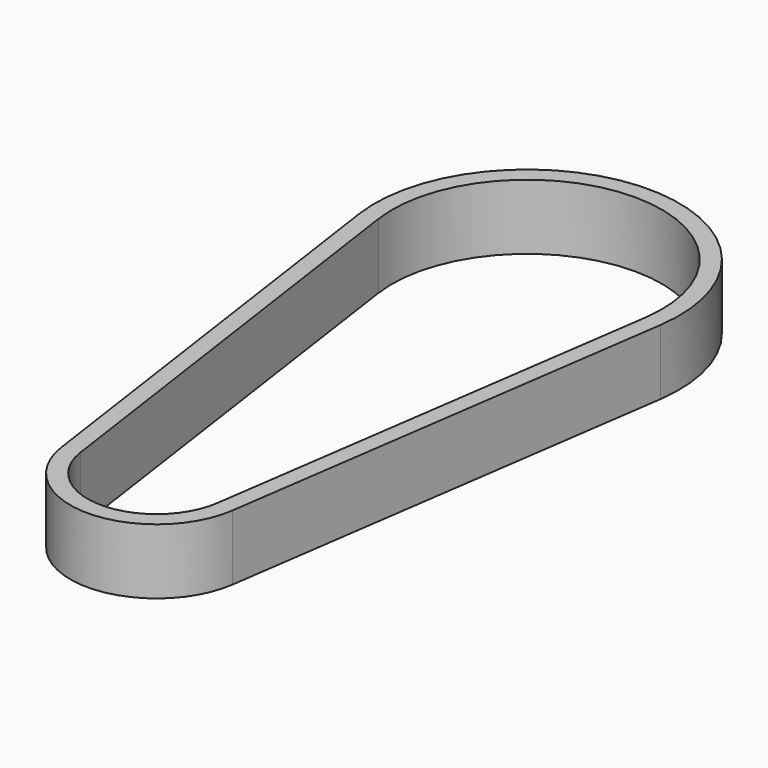
from build123d import *

# Parameters (mm, degrees)
F1_DEPTH = 6


with BuildPart() as f1:
    # F0 (on Top) → F1 (new body)
    with BuildSketch(Plane.XY):
        with BuildLine():
            ThreePointArc((12.266961, -1.759466), (0, 12.3925), (-12.266961, -1.759466))
            Line((-12.266961, -1.759466), (-6.285673, -43.460888))
            ThreePointArc((-6.285673, -43.460888), (0, -48.909326), (6.285673, -43.460888))
            Line((6.285673, -43.460888), (12.266961, -1.759466))
        make_face()
        with BuildLine():
            ThreePointArc((13.838379, -1.984856), (0, 13.98), (-13.838379, -1.984856))
            Line((-13.838379, -1.984856), (-7.857091, -43.686278))
            ThreePointArc((-7.857091, -43.686278), (0, -50.496826), (7.857091, -43.686278))
            Line((7.857091, -43.686278), (13.838379, -1.984856))
        make_face()
        with BuildLine():
            Line((-6.285673, -43.460888), (-12.266961, -1.759466))
            ThreePointArc((-12.266961, -1.759466), (0, 12.3925), (12.266961, -1.759466))
            Line((12.266961, -1.759466), (6.285673, -43.460888))
            ThreePointArc((6.285673, -43.460888), (0, -48.909326), (-6.285673, -43.460888))
        make_face(mode=Mode.SUBTRACT)
    extrude(amount=F1_DEPTH)


solid = f1.part
